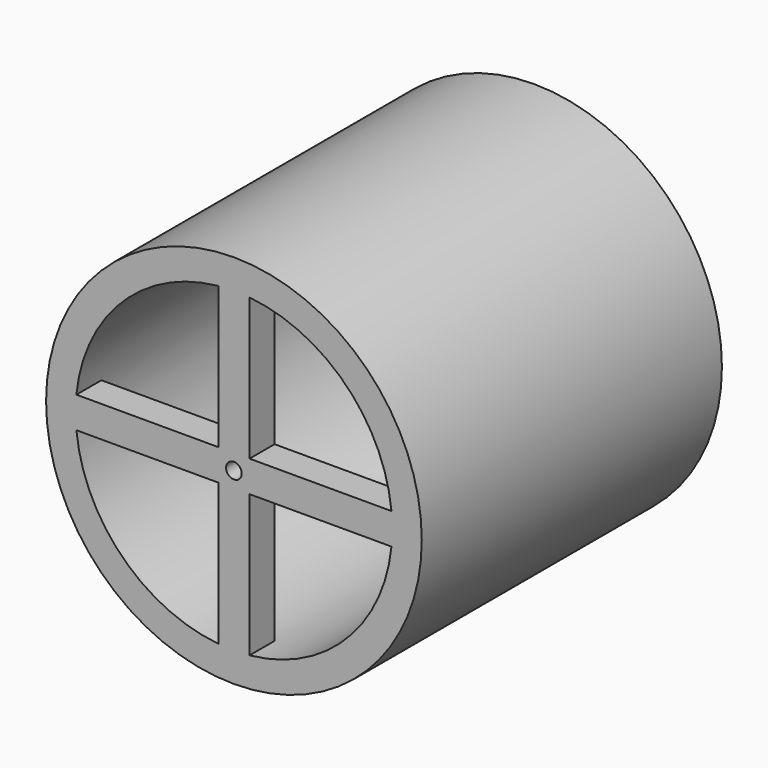
from build123d import *

# Parameters (mm, degrees)
F0_R     = 152.6
F0_R_2   = 128.6
F1_DEPTH = 304.8
F3_DEPTH = 25.4
F5_DEPTH = 25.4
F6_R     = 6.35
F7_DEPTH = 382


with BuildPart() as f1:
    # F0 (on Front) → F1 (new body)
    with BuildSketch(Plane.XZ):
        Circle(F0_R)
        Circle(F0_R_2, mode=Mode.SUBTRACT)
    extrude(amount=F1_DEPTH)

    # F2 (on face) → F3 (join)
    with BuildSketch(Plane.XZ.offset(304.8)):
        with BuildLine():
            ThreePointArc((12.7, 127.9713639843), (0, 128.6), (-12.7, 127.9713639843))
            Line((-12.7, 127.9713639843), (-12.7, 12.7))
            Line((-12.7, 12.7), (-12.7, -12.7))
            Line((-12.7, -12.7), (-12.7, -127.9713639843))
            ThreePointArc((-12.7, -127.9713639843), (0, -128.6), (12.7, -127.9713639843))
            Line((12.7, -127.9713639843), (12.7, -12.7))
            Line((12.7, -12.7), (12.7, 12.7))
            Line((12.7, 12.7), (12.7, 127.9713639843))
        make_face()
        with BuildLine():
            Line((-12.7, -12.7), (-12.7, 12.7))
            Line((-12.7, 12.7), (-127.9713639843, 12.7))
            ThreePointArc((-127.9713639843, 12.7), (-128.6, 0), (-127.9713639843, -12.7))
            Line((-127.9713639843, -12.7), (-12.7, -12.7))
        make_face()
        with BuildLine():
            Line((127.9713639843, 12.7), (12.7, 12.7))
            Line((12.7, 12.7), (12.7, -12.7))
            Line((12.7, -12.7), (127.9713639843, -12.7))
            ThreePointArc((127.9713639843, -12.7), (128.6, 0), (127.9713639843, 12.7))
        make_face()
        with BuildLine():
            Line((-12.7, -12.7), (-12.7, 12.7))
            Line((-12.7, 12.7), (-127.9713639843, 12.7))
            ThreePointArc((-127.9713639843, 12.7), (-128.6, 0), (-127.9713639843, -12.7))
            Line((-127.9713639843, -12.7), (-12.7, -12.7))
        make_face()
        with BuildLine():
            Line((127.9713639843, 12.7), (12.7, 12.7))
            Line((12.7, 12.7), (12.7, -12.7))
            Line((12.7, -12.7), (127.9713639843, -12.7))
            ThreePointArc((127.9713639843, -12.7), (128.4427448484, -6.3577744384), (128.6, 0))
            ThreePointArc((128.6, 0), (128.4427448484, 6.3577744384), (127.9713639843, 12.7))
        make_face()
        with BuildLine():
            ThreePointArc((12.7, 127.9713639843), (0, 128.6), (-12.7, 127.9713639843))
            Line((-12.7, 127.9713639843), (-12.7, 12.7))
            Line((-12.7, 12.7), (-12.7, -12.7))
            Line((-12.7, -12.7), (-12.7, -127.9713639843))
            ThreePointArc((-12.7, -127.9713639843), (0, -128.6), (12.7, -127.9713639843))
            Line((12.7, -127.9713639843), (12.7, -12.7))
            Line((12.7, -12.7), (12.7, 12.7))
            Line((12.7, 12.7), (12.7, 127.9713639843))
        make_face()
    extrude(amount=-F3_DEPTH)

    # F4 (on face) → F5 (join)
    with BuildSketch(Plane(origin=(0, 0, 0), x_dir=(-1, 0, 0), z_dir=(0, 1, 0))):
        with BuildLine():
            Line((-12.7, 127.9713639843), (-12.7, 12.7))
            Line((-12.7, 12.7), (-127.9713639843, 12.7))
            ThreePointArc((-127.9713639843, 12.7), (-128.6, 0), (-127.9713639843, -12.7))
            Line((-127.9713639843, -12.7), (-12.7, -12.7))
            Line((-12.7, -12.7), (-12.7, -127.9713639843))
            ThreePointArc((-12.7, -127.9713639843), (0, -128.6), (12.7, -127.9713639843))
            Line((12.7, -127.9713639843), (12.7, -12.7))
            Line((12.7, -12.7), (127.9713639843, -12.7))
            ThreePointArc((127.9713639843, -12.7), (128.4427448484, -6.3577744384), (128.6, 0))
            ThreePointArc((128.6, 0), (128.4427448484, 6.3577744384), (127.9713639843, 12.7))
            Line((127.9713639843, 12.7), (12.7, 12.7))
            Line((12.7, 12.7), (12.7, 127.9713639843))
            ThreePointArc((12.7, 127.9713639843), (0, 128.6), (-12.7, 127.9713639843))
        make_face()
    extrude(amount=-F5_DEPTH)

    # F6 (on face) → F7 (cut)
    with BuildSketch(Plane(origin=(0, 0, 0), x_dir=(-1, 0, 0), z_dir=(0, 1, 0))):
        Circle(F6_R)
    extrude(amount=-F7_DEPTH, mode=Mode.SUBTRACT)


solid = f1.part
